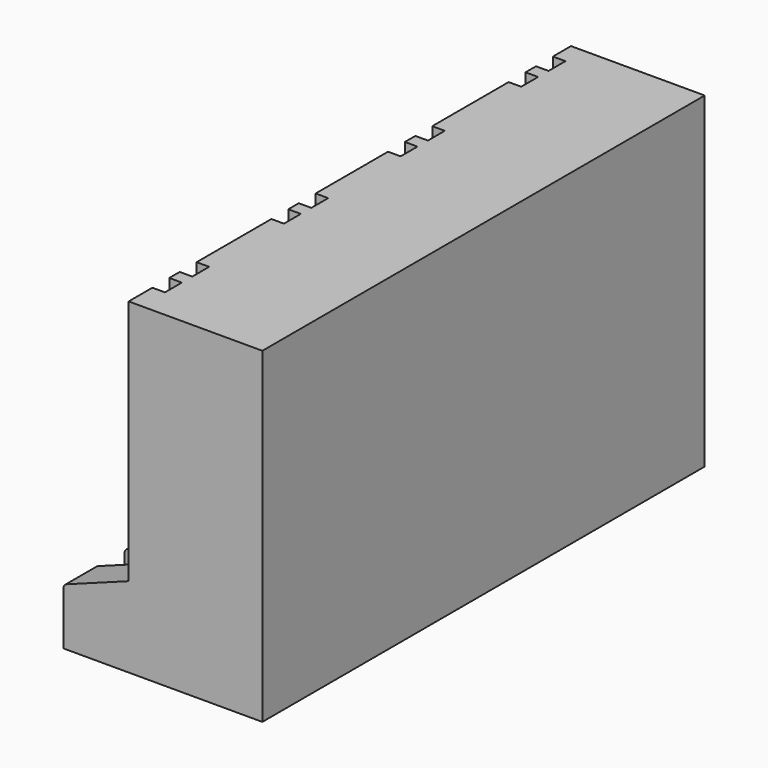
from build123d import *

# Parameters (mm, degrees)
PAD006_DEPTH    = 550
SKETCH015_W     = 227
SKETCH015_H     = 96
POCKET008_DEPTH = 85
SKETCH016_W     = 37
SKETCH016_H     = 140
POCKET009_DEPTH = 65
SKETCH019_W     = 12.5
SKETCH019_H     = 21
POCKET014_DEPTH = 245.001
FILLET_R        = 5
CHAMFER_SIZE    = 3


with BuildPart() as part:
    # Sketch014 → Pad006 (new body)
    with BuildSketch(Plane.XZ):
        Polygon((0, 245), (0, 0), (-65, -24), (-65, -80), (133, -80), (133, 245), align=None)
    extrude(amount=PAD006_DEPTH)

    # Sketch015 (on Face1 of Pad006) → Pocket008 (cut)
    with BuildSketch(Plane(origin=(0, 0, 0), x_dir=(0, 0, -1), z_dir=(-1, 0, 0))):
        with Locations((-121.5, 52)):
            Rectangle(SKETCH015_W, SKETCH015_H)
        with Locations((-121.5, 198)):
            Rectangle(SKETCH015_W, SKETCH015_H)
        with Locations((-121.5, 344)):
            Rectangle(SKETCH015_W, SKETCH015_H)
        with Locations((-121.5, 490)):
            Rectangle(SKETCH015_W, SKETCH015_H)
    extrude(amount=-POCKET008_DEPTH, mode=Mode.SUBTRACT)

    # Sketch016 → Pocket009 (cut, symmetric)
    with BuildSketch(Plane.YZ):
        with Locations((-50.5, 5)):
            Rectangle(SKETCH016_W, SKETCH016_H)
        with Locations((-199.911025, 5)):
            Rectangle(SKETCH016_W, SKETCH016_H)
        with Locations((-344.615598, 5)):
            Rectangle(SKETCH016_W, SKETCH016_H)
        with Locations((-492.327623, 5)):
            Rectangle(SKETCH016_W, SKETCH016_H)
    extrude(amount=POCKET009_DEPTH, both=True, mode=Mode.SUBTRACT)

    # Sketch019 → Pocket014 (cut, through all)
    with BuildSketch(Plane.XY):
        with Locations((6.25, -33)):
            Rectangle(SKETCH019_W, SKETCH019_H)
        with Locations((6.25, -67)):
            Rectangle(SKETCH019_W, SKETCH019_H)
        with Locations((6.25, -183)):
            Rectangle(SKETCH019_W, SKETCH019_H)
        with Locations((6.25, -217)):
            Rectangle(SKETCH019_W, SKETCH019_H)
        with Locations((6.25, -328)):
            Rectangle(SKETCH019_W, SKETCH019_H)
        with Locations((6.25, -362)):
            Rectangle(SKETCH019_W, SKETCH019_H)
        with Locations((6.25, -476)):
            Rectangle(SKETCH019_W, SKETCH019_H)
        with Locations((6.25, -510)):
            Rectangle(SKETCH019_W, SKETCH019_H)
    extrude(amount=POCKET014_DEPTH, mode=Mode.SUBTRACT)

    # Fillet
    fillet_edges = [part.edges().sort_by_distance(p)[0] for p in [
        (-65, -16, -24),
        (-65, -125.205513, -24),
        (-65, -272.263312, -24),
        (-65, -418.47161, -24),
        (-65, -530.413811, -24),
    ]]
    fillet(fillet_edges, radius=FILLET_R)

    # Chamfer
    chamfer_edges = [part.edges().sort_by_distance(p)[0] for p in [
        (0, -100, 121.5),
        (0, -150, 121.5),
        (0, -246, 121.5),
        (0, -296, 121.5),
        (0, -392, 121.5),
        (0, -442, 121.5),
        (0, -538, 121.5),
        (0, -4, 121.5),
    ]]
    chamfer(chamfer_edges, length=CHAMFER_SIZE)


with BuildPart() as part_1:
    # Body004 placement: moved
    add(part.part.moved(Location((0, 43, 0))))


solid = part_1.part
